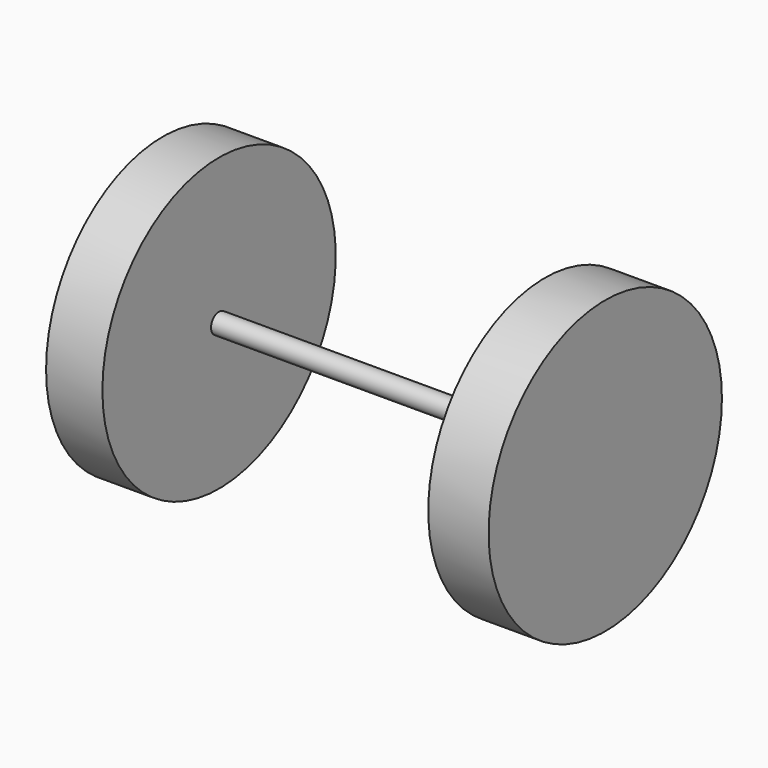
from build123d import *

# Parameters (mm, degrees)
F0_R     = 12.7
F1_DEPTH = 279.4
F2_R     = 184.15
F2_R_2   = 12.7
F3_DEPTH = 76.2
F4_R     = 184.15
F4_R_2   = 12.7
F5_DEPTH = 71.12


with BuildPart() as f1:
    # F0 (on Right) → F1 (new body, symmetric)
    with BuildSketch(Plane.YZ):
        Circle(F0_R)
    extrude(amount=F1_DEPTH, both=True)

    # F2 (on face) → F3 (join)
    with BuildSketch(Plane.YZ.offset(279.4)):
        Circle(F2_R)
        Circle(F2_R_2, mode=Mode.SUBTRACT)
    extrude(amount=-F3_DEPTH)

    # F4 (on face) → F5 (join)
    with BuildSketch(Plane(origin=(-279.4, 0, 0), x_dir=(0, -1, 0), z_dir=(-1, 0, 0))):
        Circle(F4_R)
        Circle(F4_R_2, mode=Mode.SUBTRACT)
    extrude(amount=-F5_DEPTH)


solid = f1.part
